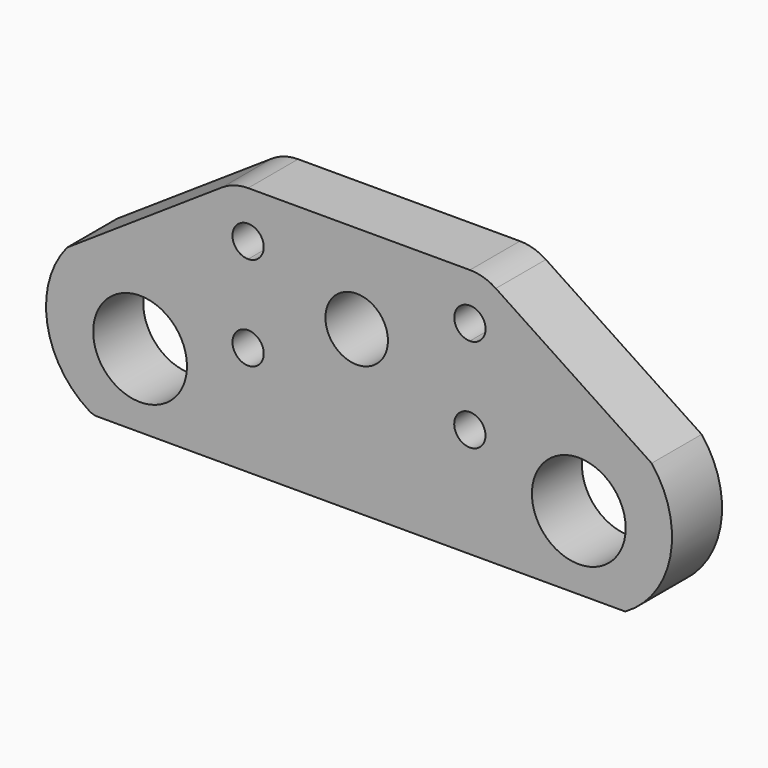
from build123d import *

# Parameters (mm, degrees)
F0_R     = 19.05
F1_DEPTH = 25.4


with BuildPart() as f1:
    # F0 (on Front) → F1 (new body)
    with BuildSketch(Plane.XZ):
        with BuildLine():
            ThreePointArc((17.411722, 0.969741), (19.029765, 0.247249), (20.784453, 0))
            Line((20.784453, 0), (235.130832, 0))
            ThreePointArc((235.130832, 0), (253.491495, 25.789369), (245.857692, 56.512822))
            Line((245.857692, 56.512822), (182.583289, 98.431144))
            ThreePointArc((182.583289, 98.431144), (177.556212, 100.790591), (172.062274, 101.6))
            Line((172.062274, 101.6), (127, 101.6))
            Line((127, 101.6), (81.967876, 101.6))
            ThreePointArc((81.967876, 101.6), (76.447488, 100.782603), (71.400837, 98.400558))
            Line((71.400837, 98.400558), (8.482961, 56.455308))
            ThreePointArc((8.482961, 56.455308), (0.369698, 26.688525), (17.411722, 0.969741))
        make_face()
        with Locations((38.1, 29.827375)):
            Circle(F0_R, mode=Mode.SUBTRACT)
        with BuildLine():
            ThreePointArc((88.317876, 44.45), (77.477748, 39.959872), (81.967876, 50.8))
            ThreePointArc((81.967876, 50.8), (86.458004, 48.940128), (88.317876, 44.45))
        make_face(mode=Mode.SUBTRACT)
        with BuildLine():
            ThreePointArc((178.382124, 44.45), (167.541996, 39.959872), (172.032124, 50.8))
            ThreePointArc((172.032124, 50.8), (176.522252, 48.940128), (178.382124, 44.45))
        make_face(mode=Mode.SUBTRACT)
        with Locations((216.277108, 29.826619)):
            Circle(F0_R, mode=Mode.SUBTRACT)
        with BuildLine():
            ThreePointArc((138.767743, 65.500937), (116.76372, 56.856565), (127, 78.166675))
            ThreePointArc((127, 78.166675), (135.371765, 74.145309), (138.767743, 65.500937))
        make_face(mode=Mode.SUBTRACT)
        with BuildLine():
            ThreePointArc((88.317876, 82.55), (86.458004, 78.059872), (81.967876, 76.2))
            ThreePointArc((81.967876, 76.2), (77.477748, 87.040128), (88.317876, 82.55))
        make_face(mode=Mode.SUBTRACT)
        with BuildLine():
            ThreePointArc((178.412274, 82.55), (176.54173, 78.049225), (172.032124, 76.200072))
            ThreePointArc((172.032124, 76.200072), (167.582818, 87.050775), (178.412274, 82.55))
        make_face(mode=Mode.SUBTRACT)
    extrude(amount=F1_DEPTH)


solid = f1.part
